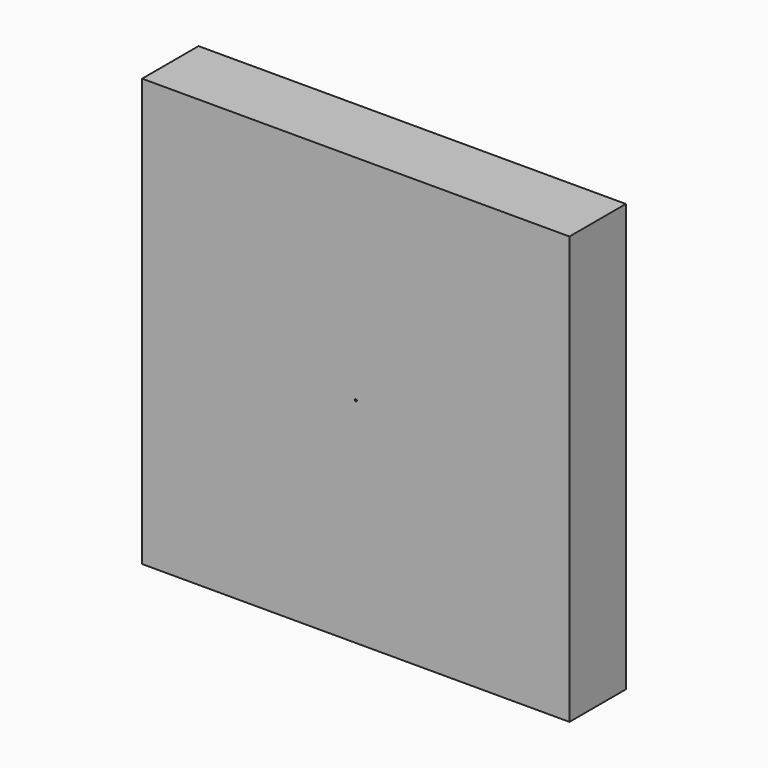
from build123d import *

# Parameters (mm, degrees)
F0_W     = 100
F0_H     = 100
F1_DEPTH = 16.5
F2_R     = 0.25
F3_DEPTH = 16.501
F4_R     = 35
F4_R_2   = 0.25
F5_DEPTH = 6.5


with BuildPart() as f1:
    # F0 (on Front) → F1 (new body)
    with BuildSketch(Plane.XZ):
        Rectangle(F0_W, F0_H)
    extrude(amount=F1_DEPTH)

    # F2 (on face) → F3 (cut, through all)
    with BuildSketch(Plane.XZ.offset(16.5)):
        Circle(F2_R)
    extrude(amount=-F3_DEPTH, mode=Mode.SUBTRACT)

    # F4 (on face) → F5 (cut)
    with BuildSketch(Plane(origin=(0, 0, 0), x_dir=(-1, 0, 0), z_dir=(0, 1, 0))):
        Circle(F4_R)
        Circle(F4_R_2, mode=Mode.SUBTRACT)
        Circle(F4_R)
        Circle(F4_R_2, mode=Mode.SUBTRACT)
    extrude(amount=-F5_DEPTH, mode=Mode.SUBTRACT)


solid = f1.part
